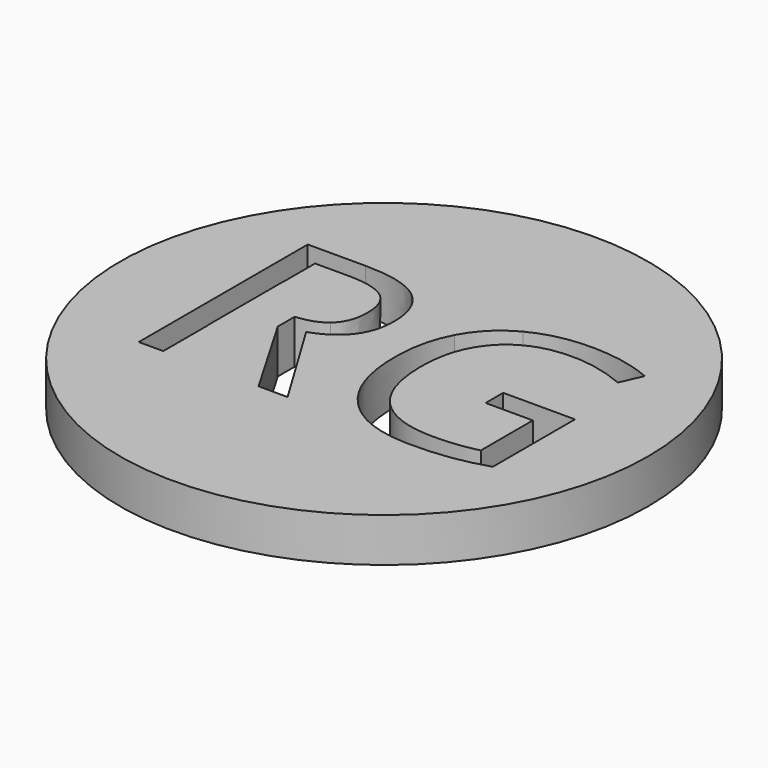
from build123d import *

# Parameters (mm, degrees)
F0_R     = 12
F1_DEPTH = 2
F3_DEPTH = 25


with BuildPart() as f1:
    # F0 (on Top) → F1 (new body)
    with BuildSketch(Plane.XY):
        Circle(F0_R)
    extrude(amount=F1_DEPTH)

    # F2 (on face) → F3 (cut)
    with BuildSketch(Plane.XY.offset(2)):
        with BuildLine():
            Line((-6.5106279217, -1.8662924413), (-6.5106279217, 2.4396951776))
            Line((-6.5106279217, 2.4396951776), (-6.4994953498, 2.4396951776))
            Line((-6.4994953498, 2.4396951776), (-6.4994953498, 4.2018918664))
            Line((-6.4994953498, 4.2018918664), (-5.0467973821, 4.2018918664))
            add(Edge.make_bspline(
                [(-3.2430132195, 3.7814293576), (-3.8043306687, 4.2018918664), (-5.0467973821, 4.2018918664)],
                knots=[0, 0, 0, 1, 1, 1], degree=2))
            add(Edge.make_bspline(
                [(-2.6816957703, 2.4086192665), (-2.6816957703, 3.3609668488), (-3.2430132195, 3.7814293576)],
                knots=[0, 0, 0, 1, 1, 1], degree=2))
            add(Edge.make_bspline(
                [(-3.233552813, 0.9990187059), (-2.6816957703, 1.4688855594), (-2.6816957703, 2.4086192665)],
                knots=[0, 0, 0, 1, 1, 1], degree=2))
            add(Edge.make_bspline(
                [(-4.5059826225, 0.5491711407), (-3.6714994229, 0.6261384495), (-3.233552813, 0.9990187059)],
                knots=[0.2064129368, 0.2064129368, 0.2064129368, 1, 1, 1], degree=2))
            Line((-4.5059826225, 0.5491711407), (-4.5059826225, -0.4295026676))
            Line((-4.5059826225, -0.4295026676), (-4.493889183, -0.4295026676))
            Line((-4.493889183, -0.4295026676), (-2.1687315096, -4.4238965008))
            Line((-2.1687315096, -4.4238965008), (-0.8484792321, -4.4238965008))
            Line((-0.8484792321, -4.4238965008), (-3.4574490989, -0.1078488484))
            add(Edge.make_bspline(
                [(-1.5254238712, 2.4674840177), (-1.5254238712, 0.562788853), (-3.4574490989, -0.1078488484)],
                knots=[0, 0, 0, 1, 1, 1], degree=2))
            add(Edge.make_bspline(
                [(-2.3695023575, 4.5046248727), (-1.5254238712, 3.8276802336), (-1.5254238712, 2.4674840177)],
                knots=[0, 0, 0, 1, 1, 1], degree=2))
            add(Edge.make_bspline(
                [(-4.9816256932, 5.1815695118), (-3.2135808439, 5.1815695118), (-2.3695023575, 4.5046248727)],
                knots=[0, 0, 0, 1, 1, 1], degree=2))
            Line((-4.9816256932, 5.1815695118), (-7.6158233106, 5.1815695118))
            Line((-7.6158233106, 5.1815695118), (-7.6158233106, -4.4238965008))
            Line((-7.6158233106, -4.4238965008), (-6.4994953498, -4.4238965008))
            Line((-6.4994953498, -4.4238965008), (-6.4994953498, -1.8662924413))
            Line((-6.4994953498, -1.8662924413), (-6.5106279217, -1.8662924413))
        make_face()
        with BuildLine():
            Line((8.1914647062, 0.609039729), (4.9265733257, 0.609039729))
            Line((4.9265733257, 0.609039729), (4.9265733257, -0.3895587293))
            Line((4.9265733257, -0.3895587293), (7.0730344329, -0.3895587293))
            Line((7.0730344329, -0.3895587293), (7.0730344329, -3.3454101659))
            add(Edge.make_bspline(
                [(5.1220883923, -3.5766645457), (6.1206868506, -3.5766645457), (7.0730344329, -3.3454101659)],
                knots=[0, 0, 0, 1, 1, 1], degree=2))
            add(Edge.make_bspline(
                [(2.3333708029, -2.5717591498), (3.2825649165, -3.5766645457), (5.1220883923, -3.5766645457)],
                knots=[0, 0, 0, 1, 1, 1], degree=2))
            add(Edge.make_bspline(
                [(1.3841766894, 0.3777853492), (1.3841766894, -1.5668537538), (2.3333708029, -2.5717591498)],
                knots=[0, 0, 0, 1, 1, 1], degree=2))
            add(Edge.make_bspline(
                [(2.3701612725, 3.2758231908), (1.3841766894, 2.2320250128), (1.3841766894, 0.3777853492)],
                knots=[0, 0, 0, 1, 1, 1], degree=2))
            add(Edge.make_bspline(
                [(5.109474517, 4.3196213688), (3.3561458555, 4.3196213688), (2.3701612725, 3.2758231908)],
                knots=[0, 0, 0, 1, 1, 1], degree=2))
            add(Edge.make_bspline(
                [(7.6133287567, 3.7688154823), (6.3119972921, 4.3196213688), (5.109474517, 4.3196213688)],
                knots=[0, 0, 0, 1, 1, 1], degree=2))
            Line((7.6133287567, 3.7688154823), (8.0464051407, 4.7548000654))
            add(Edge.make_bspline(
                [(5.1809531435, 5.3182198271), (6.7198459256, 5.3182198271), (8.0464051407, 4.7548000654)],
                knots=[0, 0, 0, 1, 1, 1], degree=2))
            add(Edge.make_bspline(
                [(2.5351928071, 4.7243165335), (3.6651857994, 5.3182198271), (5.1809531435, 5.3182198271)],
                knots=[0, 0, 0, 1, 1, 1], degree=2))
            add(Edge.make_bspline(
                [(0.8039384273, 3.0035737164), (1.4051998149, 4.1304132399), (2.5351928071, 4.7243165335)],
                knots=[0, 0, 0, 1, 1, 1], degree=2))
            add(Edge.make_bspline(
                [(0.2026770398, 0.3777853492), (0.2026770398, 1.8767341929), (0.8039384273, 3.0035737164)],
                knots=[0, 0, 0, 1, 1, 1], degree=2))
            add(Edge.make_bspline(
                [(1.4178136901, -3.2581641953), (0.2026770398, -1.9599861995), (0.2026770398, 0.3777853492)],
                knots=[0, 0, 0, 1, 1, 1], degree=2))
            add(Edge.make_bspline(
                [(4.8130484484, -4.5563421911), (2.6329503404, -4.5563421911), (1.4178136901, -3.2581641953)],
                knots=[0, 0, 0, 1, 1, 1], degree=2))
            add(Edge.make_bspline(
                [(6.6399580489, -4.4312545947), (5.851590845, -4.5563421911), (4.8130484484, -4.5563421911)],
                knots=[0, 0, 0, 1, 1, 1], degree=2))
            add(Edge.make_bspline(
                [(8.1914647062, -4.0622987433), (7.4283252528, -4.3061669984), (6.6399580489, -4.4312545947)],
                knots=[0, 0, 0, 1, 1, 1], degree=2))
            Line((8.1914647062, -4.0622987433), (8.1914647062, 0.609039729))
        make_face()
    extrude(amount=-F3_DEPTH, mode=Mode.SUBTRACT)


solid = f1.part
